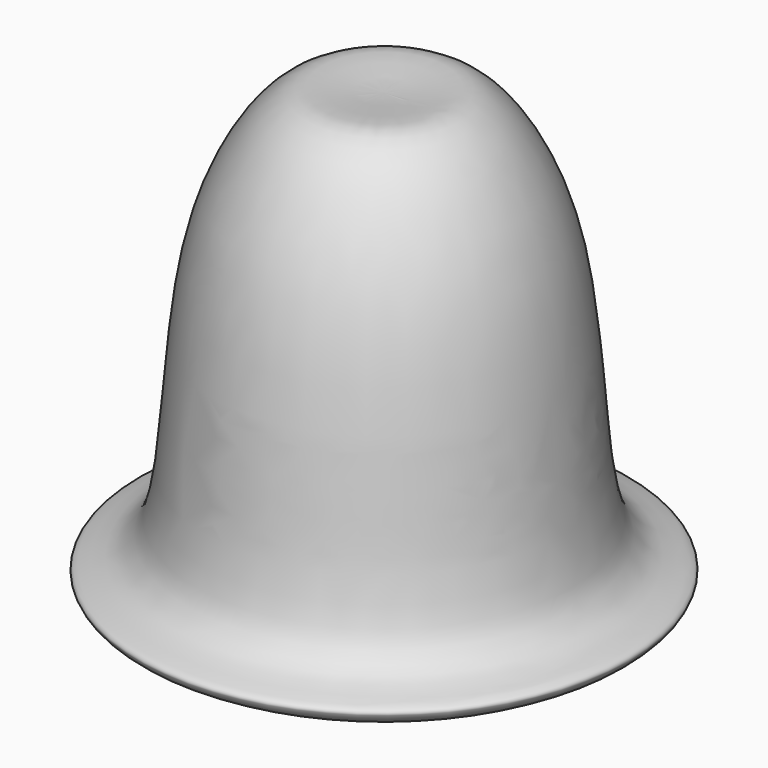
from build123d import *


with BuildPart() as f2:
    # F0 (on Front) → F2 (revolve)
    with BuildSketch(Plane.XZ):
        with BuildLine():
            add(Edge.make_bspline(
                [(0, 57.15), (6.0602439675, 57.1584899988), (10.4150699517, 59.9823142411), (23.4380952473, 41.4880956312), (21.973024965, 7.8356037167), (28.385039397, 3.5394677851), (33.6433600062, 2.8786543249), (26.9589829381, -2.0236493552), (18.5627821512, 7.4420024434), (22.3561210814, 41.4696233146), (9.1812189262, 54.6167636328), (9.0989785138, 54.0283149073), (0, 53.975)],
                knots=[0, 0, 0, 0, 0.0901142502, 0.211481539, 0.3733142879, 0.4440868795, 0.4929114562, 0.5531600996, 0.6387676356, 0.8035263554, 0.907858154, 1, 1, 1, 1], degree=3))
            Line((0, 57.15), (0, 53.975))
        make_face()
    revolve(axis=Axis((0, 0, 13.628076762), (0, 0, -1)))


solid = f2.part
